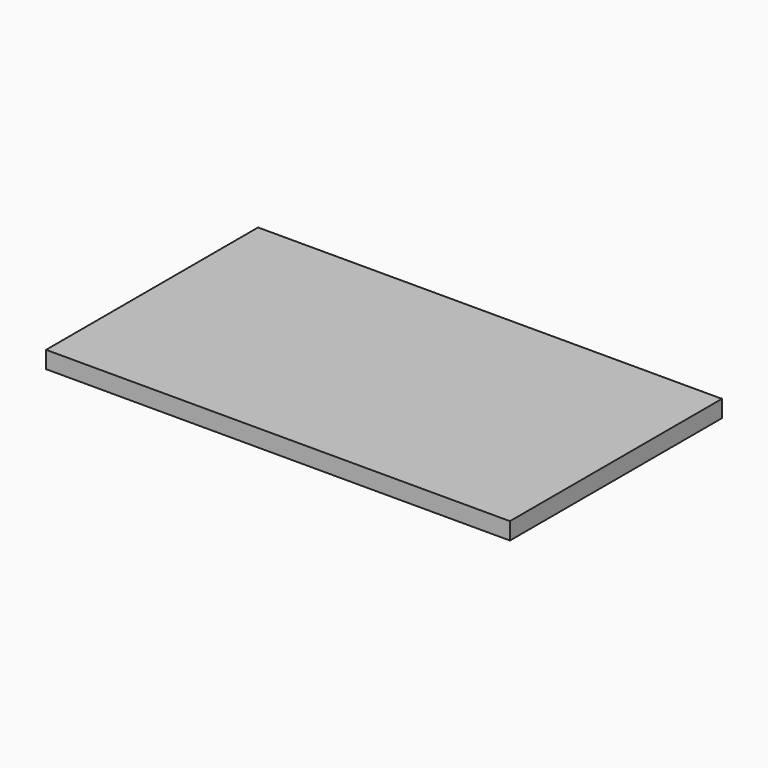
from build123d import *

# Parameters (mm, degrees)
SKETCH_W  = 81.48
SKETCH_H  = 46.54
PAD_DEPTH = 3


with BuildPart() as part:
    # Sketch → Pad (new body)
    with BuildSketch(Plane.XY):
        with Locations((-40.74, 23.27)):
            Rectangle(SKETCH_W, SKETCH_H)
    extrude(amount=PAD_DEPTH)


solid = part.part
